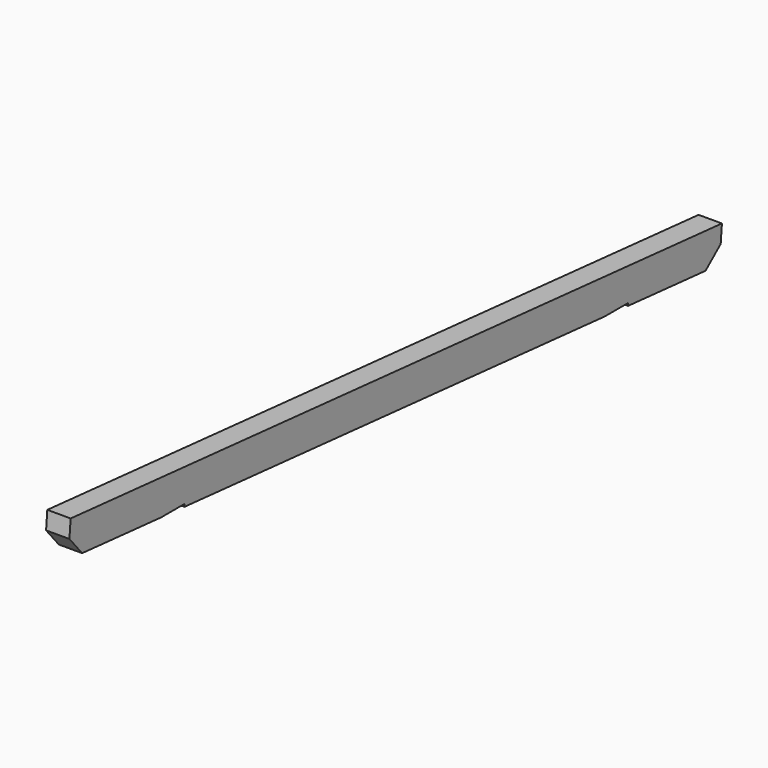
from build123d import *

# Parameters (mm, degrees)
F1_DEPTH = 80
F2_SIZE  = 60
F3_R     = 10
F4_R     = 10
F5_DEPTH = 25


with BuildPart() as f1:
    # F0 (on Right) → F1 (new body)
    with BuildSketch(Plane.YZ):
        Polygon((4191.274234, 1023.006535), (1401.929079, 1267.042615), (1391.47039, 1147.499251), (1789.291577, 1112.694407), (1889.291577, 1112.694407), (1889.291577, 1103.945541), (3689.291577, 946.465946), (3789.291577, 946.465946), (3789.291577, 937.71708), (4180.815545, 903.463171), align=None)
    extrude(amount=F1_DEPTH)

    # F2
    f2_edges = [f1.edges().sort_by_distance(p)[0] for p in [
        (40, 1391.47039, 1147.499251),
        (40, 4180.815545, 903.463171),
    ]]
    chamfer(f2_edges, length=F2_SIZE)

    # F3 (on face) + F4 (on face) → F5 (cut)
    with BuildSketch(Plane(origin=(0, 0, 1112.694407), x_dir=(1, 0, 0), z_dir=(0, 0, -1))):
        with Locations((40, -1839.291577)):
            Circle(F3_R)
    with BuildSketch(Plane(origin=(0, 0, 946.465946), x_dir=(1, 0, 0), z_dir=(0, 0, -1))):
        with Locations((40, -3739.291577)):
            Circle(F4_R)
    extrude(amount=-F5_DEPTH, mode=Mode.SUBTRACT)


solid = f1.part
